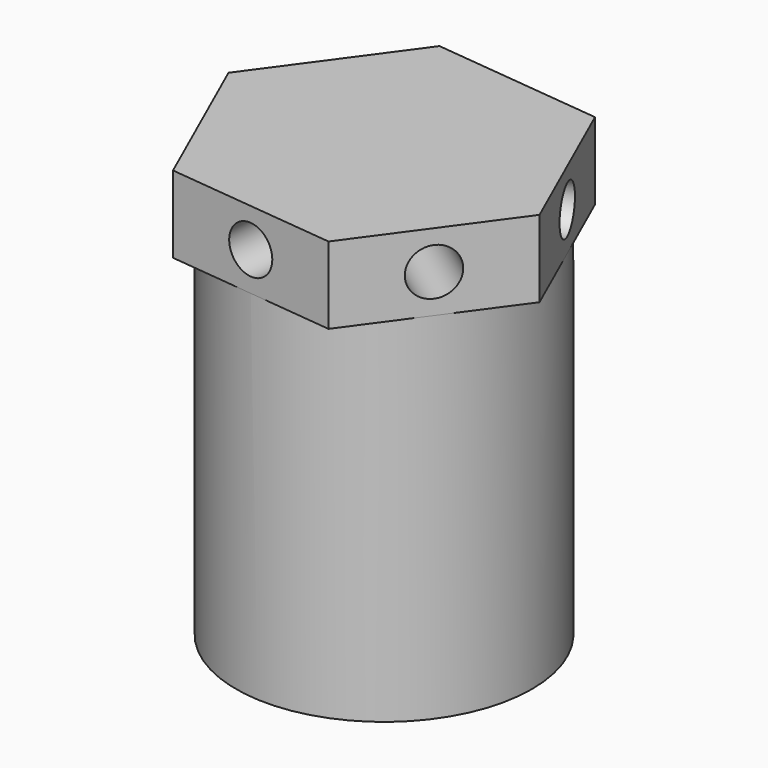
from build123d import *

# Parameters (mm, degrees)
F2_R      = 4.75
F3_DEPTH  = 5
F5_DEPTH  = 1.5
F6_R      = 2
F7_DEPTH  = 30
F8_R      = 2
F9_DEPTH  = 30
F10_R     = 2
F11_DEPTH = 30


with BuildPart() as f1:
    # F0 (on Front) → F1 (revolve)
    with BuildSketch(Plane.XZ):
        with BuildLine():
            Line((9.5, 25), (9.5, 3))
            ThreePointArc((9.5, 3), (10.37868, 0.87868), (12.5, 0))
            Line((12.5, 0), (12.5, 25))
            Line((12.5, 25), (12.5, 30))
            Line((12.5, 30), (4.672674, 30))
            Line((4.672674, 30), (4.672674, 25))
            Line((4.672674, 25), (7, 0))
            Line((7, 0), (7, 25))
            Line((7, 25), (9.5, 25))
        make_face()
    revolve(axis=Axis((0, 0, 27.631196), (0, 0, 1)))

    # F2 (on face) → F3 (join)
    with BuildSketch(Plane.XY.offset(30)):
        Polygon((-8.491879, -11.671389), (5.86178, -13.189877), (14.353659, -1.518488), (8.491879, 11.671389), (-5.86178, 13.189877), (-14.353659, 1.518488), align=None)
        Circle(F2_R, mode=Mode.SUBTRACT)
    extrude(amount=F3_DEPTH)

    # F4 (on face) → F5 (join)
    with BuildSketch(Plane.XY.offset(35)):
        Polygon((-5.86178, 13.189877), (-14.353659, 1.518488), (-8.491879, -11.671389), (5.86178, -13.189877), (14.353659, -1.518488), (8.491879, 11.671389), align=None)
    extrude(amount=F5_DEPTH)

    # F6 (on face) → F7 (cut)
    with BuildSketch(Plane(origin=(-1.315049, -12.430633, 0), x_dir=(0.994451, -0.105204, 0), z_dir=(-0.105204, -0.994451, 0))):
        with Locations((0, 33.25)):
            Circle(F6_R)
    extrude(amount=-F7_DEPTH, mode=Mode.SUBTRACT)

    # F8 (on face) → F9 (cut)
    with BuildSketch(Plane(origin=(-10.10772, 7.354183, 0), x_dir=(-0.588335, -0.808618, 0), z_dir=(-0.808618, 0.588335, 0))):
        with Locations((0, 33.25)):
            Circle(F8_R)
    extrude(amount=-F9_DEPTH, mode=Mode.SUBTRACT)

    # F10 (on face) → F11 (cut)
    with BuildSketch(Plane(origin=(11.422769, 5.076451, 0), x_dir=(-0.406116, 0.913822, 0), z_dir=(0.913822, 0.406116, 0))):
        with Locations((0, 33.25)):
            Circle(F10_R)
    extrude(amount=-F11_DEPTH, mode=Mode.SUBTRACT)


solid = f1.part
